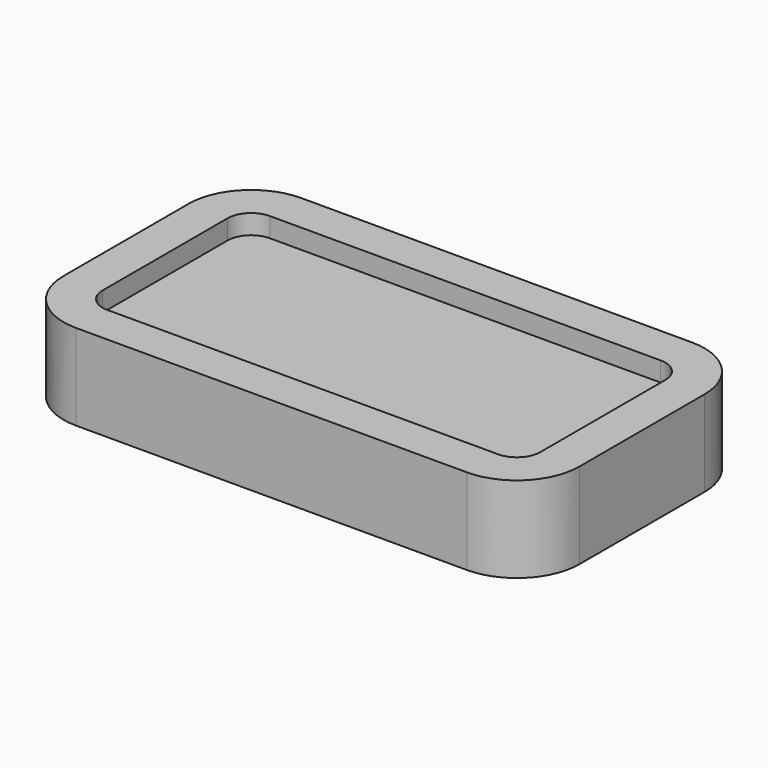
from build123d import *

# Parameters (mm, degrees)
F3_DEPTH = 10
F7_DEPTH = 5


with BuildPart() as f3:
    # F2 (on Top) → F3 (new body)
    with BuildSketch(Plane.XY):
        with BuildLine():
            Line((50, 30), (-50, 30))
            ThreePointArc((-50, 30), (-57.0710678119, 27.0710678119), (-60, 20))
            Line((-60, 20), (-60, -20))
            ThreePointArc((-60, -20), (-57.0710678119, -27.0710678119), (-50, -30))
            Line((-50, -30), (50, -30))
            ThreePointArc((50, -30), (57.0710678119, -27.0710678119), (60, -20))
            Line((60, -20), (60, 20))
            ThreePointArc((60, 20), (57.0710678119, 27.0710678119), (50, 30))
        make_face()
    extrude(amount=F3_DEPTH)


with BuildPart() as f5:
    # F5: sweep along a path in F2
    with BuildLine(Plane.XY) as f5_path:
        Line((0, 31), (50, 31))
        ThreePointArc((50, 31), (57.7781745931, 27.7781745931), (61, 20))
        Line((61, 20), (61, -20))
        ThreePointArc((61, -20), (57.7781745931, -27.7781745931), (50, -31))
        Line((50, -31), (-50, -31))
        ThreePointArc((-50, -31), (-57.7781745931, -27.7781745931), (-61, -20))
        Line((-61, -20), (-61, 20))
        ThreePointArc((-61, 20), (-57.7781745931, 27.7781745931), (-50, 31))
        Line((-50, 31), (0, 31))
    # F4 (on Right) → F5 (sweep)
    with BuildSketch(Plane.YZ):
        Polygon((31, 11), (31, -1), (26, -1), (26, -6), (31, -6), (36, -6), (36, 16), (26, 16), (26, 11), align=None)
    sweep(path=f5_path.line)


with BuildPart() as f7:
    # F6 (on face) → F7 (new body)
    with BuildSketch(Plane(origin=(0, 0, -6), x_dir=(1, 0, 0), z_dir=(0, 0, -1))):
        with BuildLine():
            Line((-56, 20), (-56, -20))
            ThreePointArc((-56, -20), (-54.2426406871, -24.2426406871), (-50, -26))
            Line((-50, -26), (50, -26))
            ThreePointArc((50, -26), (54.2426406871, -24.2426406871), (56, -20))
            Line((56, -20), (56, 20))
            ThreePointArc((56, 20), (54.2426406871, 24.2426406871), (50, 26))
            Line((50, 26), (-50, 26))
            ThreePointArc((-50, 26), (-54.2426406871, 24.2426406871), (-56, 20))
        make_face()
    extrude(amount=-F7_DEPTH)


solid = Compound([f3.part, f5.part, f7.part])
